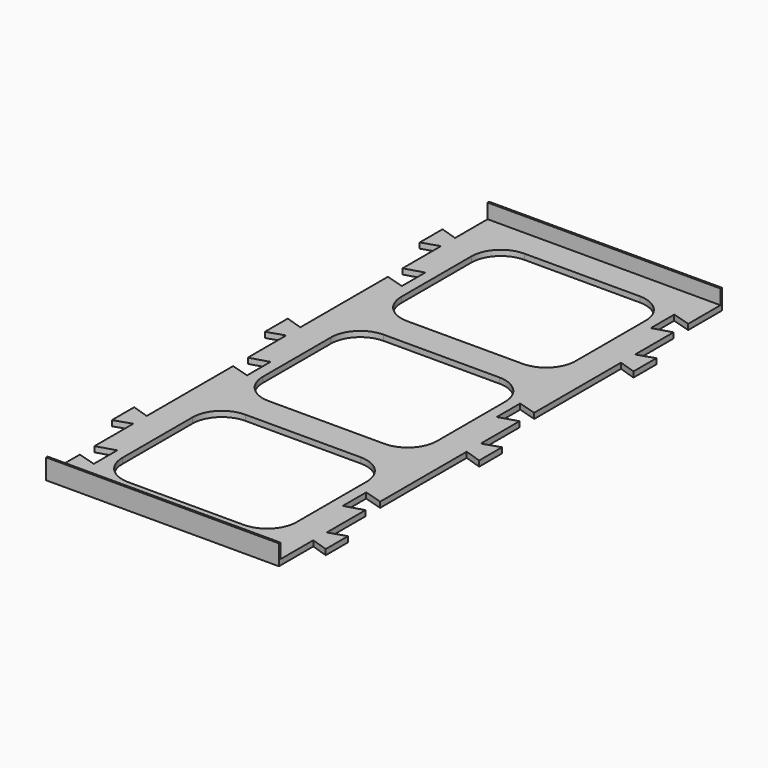
from build123d import *

# Parameters (mm, degrees)
F1_DEPTH = 1.5
F2_W     = 63.5
F2_H     = 0.5
F3_DEPTH = 4
F4_W     = 47.5
F4_H     = 39.9
F4_H_2   = 39.2
F5_DEPTH = 1.501
F6_R     = 8


with BuildPart() as f1:
    # F0 (on Top) → F1 (new body)
    with BuildSketch(Plane.XY):
        Polygon((0, 11.5), (0, 0), (63.5, 0), (63.5, 11.7), (68.1, 10.2), (68.1, 17.8), (63.5, 16.3), (63.5, 29.5), (58.5, 28), (58.5, 36), (63.5, 34.5), (63.5, 64), (68.1, 62.5), (68.1, 70.3), (63.5, 68.8), (63.5, 82), (58.5, 80.5), (58.5, 88.5), (63.5, 87), (63.5, 116.6), (68.1, 115.1), (68.1, 122.9), (63.5, 121.4), (63.5, 134.5), (58.5, 133), (58.5, 141), (63.5, 139.5), (63.5, 151), (0, 151), (0, 139.4), (-4.6, 140.9), (-4.6, 133.1), (0, 134.6), (0, 121.5), (5, 123), (5, 115), (0, 116.5), (0, 86.65), (-4.6, 88.15), (-4.6, 80.35), (0, 81.85), (0, 68.75), (5, 70.25), (5, 62.25), (0, 63.75), (0, 34.3), (-4.6, 35.8), (-4.6, 28.2), (0, 29.7), (0, 16.5), (5, 18), (5, 10), align=None)
    extrude(amount=F1_DEPTH)

    # F2 (on face) → F3 (join)
    with BuildSketch(Plane.XY.offset(1.5)):
        with Locations((31.75, 0.25)):
            Rectangle(F2_W, F2_H)
        with Locations((31.75, 150.75)):
            Rectangle(F2_W, F2_H)
    extrude(amount=F3_DEPTH)

    # F4 (on face) → F5 (cut, through all)
    with BuildSketch(Plane.XY.offset(1.5)):
        with Locations((31.75, 123.05)):
            Rectangle(F4_W, F4_H)
        with Locations((31.75, 75.5)):
            Rectangle(F4_W, F4_H_2)
        with Locations((31.75, 27.95)):
            Rectangle(F4_W, F4_H)
    extrude(amount=-F5_DEPTH, mode=Mode.SUBTRACT)

    # F6
    f6_edges = [f1.edges().sort_by_distance(p)[0] for p in [
        (8, 143, 0.75),
        (8, 95.1, 0.75),
        (8, 47.9, 0.75),
        (8, 103.1, 0.75),
        (8, 55.9, 0.75),
        (8, 8, 0.75),
        (55.5, 8, 0.75),
        (55.5, 55.9, 0.75),
        (55.5, 103.1, 0.75),
        (55.5, 143, 0.75),
        (55.5, 95.1, 0.75),
        (55.5, 47.9, 0.75),
    ]]
    fillet(f6_edges, radius=F6_R)


solid = f1.part
